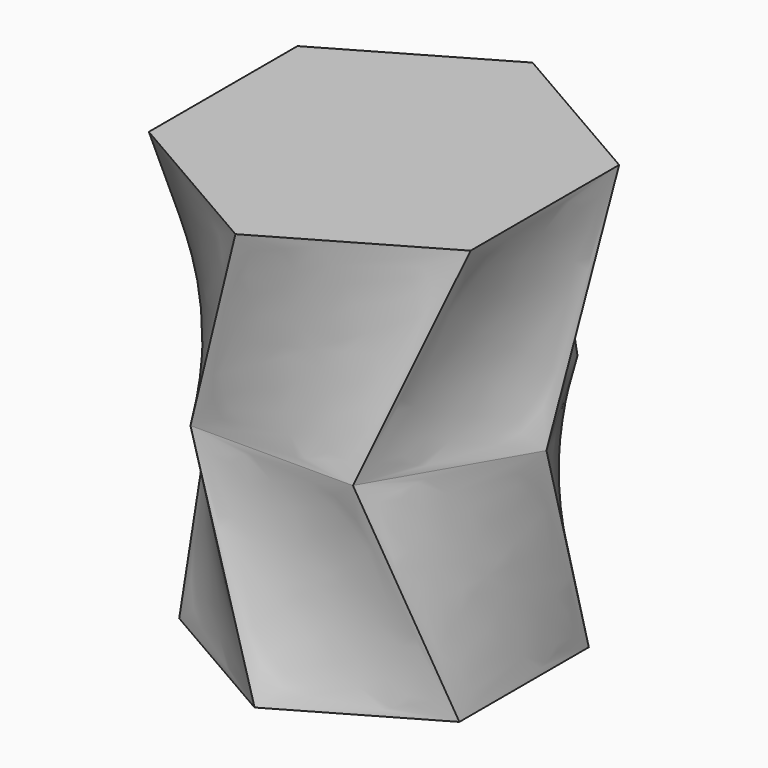
from build123d import *


with BuildPart() as f3:
    # F0 (on Top) → F3 section 0
    with BuildSketch(Plane.XY):
        Polygon((-33.374093473, 19.2685418506), (-33.374093473, -19.2685418506), (0, -38.5370837011), (33.374093473, -19.2685418506), (33.374093473, 19.2685418506), (0, 38.5370837011), align=None)
    # F2 (on offset) → F3 section 1
    with BuildSketch(Plane.XY.offset(50.8)):
        Polygon((-38.667745959, -0.041665369), (-19.2977897115, -33.5080829921), (19.3699562475, -33.4664176231), (38.667745959, 0.041665369), (19.2977897115, 33.5080829921), (-19.3699562475, 33.4664176231), align=None)
    loft()

    # F3_face (on face) → F6 section 0
    with BuildSketch(Plane.XY.offset(50.8)):
        Polygon((-19.3699562475, 33.4664176231), (-38.667745959, -0.041665369), (-19.2977897115, -33.5080829921), (19.3699562475, -33.4664176231), (38.667745959, 0.041665369), (19.2977897115, 33.5080829921), align=None)
    # F5 (on offset) → F6 section 1
    with BuildSketch(Plane.XY.offset(101.6)):
        Polygon((-38.3206345141, 22.1244286522), (-38.3206345141, -22.1244286522), (0, -44.2488573045), (38.3206345141, -22.1244286522), (38.3206345141, 22.1244286522), (0, 44.2488573045), align=None)
    loft()


solid = f3.part
